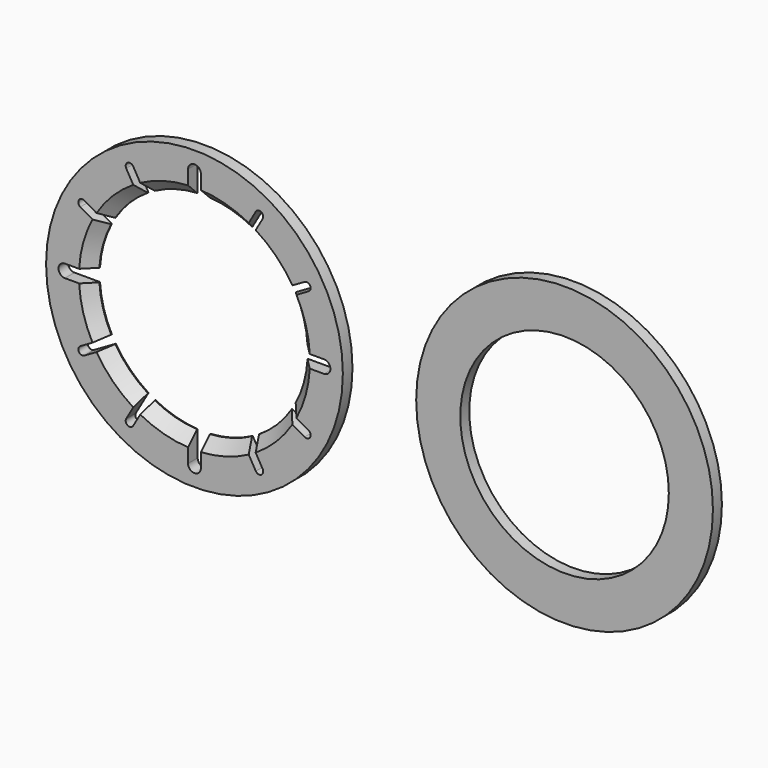
from build123d import *

# Parameters (mm, degrees)
F0_R     = 18.5
F1_DEPTH = 1.5
F2_SIZE  = 1.4
F0_R_2   = 13
F3_DEPTH = 1.4


with BuildPart() as f1:
    # F0 (on Front) → F1 (new body)
    with BuildSketch(Plane.XZ):
        Circle(F0_R)
        with BuildLine():
            ThreePointArc((11.5, 6.0621778265), (12.5173262382, 3.509493389), (12.9753612666, 0.8))
            Line((12.9753612666, 0.8), (16.15, 0.8))
            ThreePointArc((16.15, 0.8), (16.7156854249, 0.5656854249), (16.95, 0))
            ThreePointArc((16.95, 0), (16.7156854249, -0.5656854249), (16.15, -0.8))
            Line((16.15, -0.8), (12.9753612666, -0.8))
            ThreePointArc((12.9753612666, -0.8), (12.5173262382, -3.509493389), (11.5, -6.0621778265))
            Line((11.5, -6.0621778265), (14.2363102711, -7.6419872981))
            ThreePointArc((14.2363102711, -7.6419872981), (14.419322973, -7.825), (14.4863102711, -8.075))
            ThreePointArc((14.4863102711, -8.075), (14.2363102711, -8.5080127019), (13.7363102711, -8.5080127019))
            Line((13.7363102711, -8.5080127019), (11, -6.9282032303))
            ThreePointArc((11, -6.9282032303), (9.1923881554, -9.1923881554), (6.9282032303, -11))
            Line((6.9282032303, -11), (8.5080127019, -13.7363102711))
            ThreePointArc((8.5080127019, -13.7363102711), (8.5579629131, -13.8569007486), (8.575, -13.9863102711))
            ThreePointArc((8.575, -13.9863102711), (8.2044095226, -14.4692731843), (7.6419872981, -14.2363102711))
            Line((7.6419872981, -14.2363102711), (6.0621778265, -11.5))
            ThreePointArc((6.0621778265, -11.5), (3.509493389, -12.5173262382), (0.8, -12.9753612666))
            Line((0.8, -12.9753612666), (0.8, -16.15))
            ThreePointArc((0.8, -16.15), (0, -16.95), (-0.8, -16.15))
            Line((-0.8, -16.15), (-0.8, -12.9753612666))
            ThreePointArc((-0.8, -12.9753612666), (-3.509493389, -12.5173262382), (-6.0621778265, -11.5))
            Line((-6.0621778265, -11.5), (-7.6419872981, -14.2363102711))
            ThreePointArc((-7.6419872981, -14.2363102711), (-8.325, -14.419322973), (-8.5080127019, -13.7363102711))
            Line((-8.5080127019, -13.7363102711), (-6.9282032303, -11))
            ThreePointArc((-6.9282032303, -11), (-9.1923881554, -9.1923881554), (-11, -6.9282032303))
            Line((-11, -6.9282032303), (-13.7363102711, -8.5080127019))
            ThreePointArc((-13.7363102711, -8.5080127019), (-14.419322973, -8.325), (-14.2363102711, -7.6419872981))
            Line((-14.2363102711, -7.6419872981), (-11.5, -6.0621778265))
            ThreePointArc((-11.5, -6.0621778265), (-12.5173262382, -3.509493389), (-12.9753612666, -0.8))
            Line((-12.9753612666, -0.8), (-16.15, -0.8))
            ThreePointArc((-16.15, -0.8), (-16.95, 0), (-16.15, 0.8))
            Line((-16.15, 0.8), (-12.9753612666, 0.8))
            ThreePointArc((-12.9753612666, 0.8), (-12.5173262382, 3.509493389), (-11.5, 6.0621778265))
            Line((-11.5, 6.0621778265), (-14.2363102711, 7.6419872981))
            ThreePointArc((-14.2363102711, 7.6419872981), (-14.419322973, 8.325), (-13.7363102711, 8.5080127019))
            Line((-13.7363102711, 8.5080127019), (-11, 6.9282032303))
            ThreePointArc((-11, 6.9282032303), (-9.1923881554, 9.1923881554), (-6.9282032303, 11))
            Line((-6.9282032303, 11), (-8.5080127019, 13.7363102711))
            ThreePointArc((-8.5080127019, 13.7363102711), (-8.325, 14.419322973), (-7.6419872981, 14.2363102711))
            Line((-7.6419872981, 14.2363102711), (-6.0621778265, 11.5))
            ThreePointArc((-6.0621778265, 11.5), (-3.509493389, 12.5173262382), (-0.8, 12.9753612666))
            Line((-0.8, 12.9753612666), (-0.8, 16.15))
            ThreePointArc((-0.8, 16.15), (0, 16.95), (0.8, 16.15))
            Line((0.8, 16.15), (0.8, 12.9753612666))
            ThreePointArc((0.8, 12.9753612666), (3.509493389, 12.5173262382), (6.0621778265, 11.5))
            Line((6.0621778265, 11.5), (7.6419872981, 14.2363102711))
            ThreePointArc((7.6419872981, 14.2363102711), (8.2044095226, 14.4692731843), (8.575, 13.9863102711))
            ThreePointArc((8.575, 13.9863102711), (8.5579629131, 13.8569007486), (8.5080127019, 13.7363102711))
            Line((8.5080127019, 13.7363102711), (6.9282032303, 11))
            ThreePointArc((6.9282032303, 11), (9.1923881554, 9.1923881554), (11, 6.9282032303))
            Line((11, 6.9282032303), (13.7363102711, 8.5080127019))
            ThreePointArc((13.7363102711, 8.5080127019), (14.2363102711, 8.5080127019), (14.4863102711, 8.075))
            ThreePointArc((14.4863102711, 8.075), (14.419322973, 7.825), (14.2363102711, 7.6419872981))
            Line((14.2363102711, 7.6419872981), (11.5, 6.0621778265))
        make_face(mode=Mode.SUBTRACT)
        Circle(F0_R)
        with BuildLine():
            ThreePointArc((11.5, 6.0621778265), (12.5173262382, 3.509493389), (12.9753612666, 0.8))
            Line((12.9753612666, 0.8), (16.15, 0.8))
            ThreePointArc((16.15, 0.8), (16.7156854249, 0.5656854249), (16.95, 0))
            ThreePointArc((16.95, 0), (16.7156854249, -0.5656854249), (16.15, -0.8))
            Line((16.15, -0.8), (12.9753612666, -0.8))
            ThreePointArc((12.9753612666, -0.8), (12.5173262382, -3.509493389), (11.5, -6.0621778265))
            Line((11.5, -6.0621778265), (14.2363102711, -7.6419872981))
            ThreePointArc((14.2363102711, -7.6419872981), (14.419322973, -7.825), (14.4863102711, -8.075))
            ThreePointArc((14.4863102711, -8.075), (14.2363102711, -8.5080127019), (13.7363102711, -8.5080127019))
            Line((13.7363102711, -8.5080127019), (11, -6.9282032303))
            ThreePointArc((11, -6.9282032303), (9.1923881554, -9.1923881554), (6.9282032303, -11))
            Line((6.9282032303, -11), (8.5080127019, -13.7363102711))
            ThreePointArc((8.5080127019, -13.7363102711), (8.5579629131, -13.8569007486), (8.575, -13.9863102711))
            ThreePointArc((8.575, -13.9863102711), (8.2044095226, -14.4692731843), (7.6419872981, -14.2363102711))
            Line((7.6419872981, -14.2363102711), (6.0621778265, -11.5))
            ThreePointArc((6.0621778265, -11.5), (3.509493389, -12.5173262382), (0.8, -12.9753612666))
            Line((0.8, -12.9753612666), (0.8, -16.15))
            ThreePointArc((0.8, -16.15), (0, -16.95), (-0.8, -16.15))
            Line((-0.8, -16.15), (-0.8, -12.9753612666))
            ThreePointArc((-0.8, -12.9753612666), (-3.509493389, -12.5173262382), (-6.0621778265, -11.5))
            Line((-6.0621778265, -11.5), (-7.6419872981, -14.2363102711))
            ThreePointArc((-7.6419872981, -14.2363102711), (-8.325, -14.419322973), (-8.5080127019, -13.7363102711))
            Line((-8.5080127019, -13.7363102711), (-6.9282032303, -11))
            ThreePointArc((-6.9282032303, -11), (-9.1923881554, -9.1923881554), (-11, -6.9282032303))
            Line((-11, -6.9282032303), (-13.7363102711, -8.5080127019))
            ThreePointArc((-13.7363102711, -8.5080127019), (-14.419322973, -8.325), (-14.2363102711, -7.6419872981))
            Line((-14.2363102711, -7.6419872981), (-11.5, -6.0621778265))
            ThreePointArc((-11.5, -6.0621778265), (-12.5173262382, -3.509493389), (-12.9753612666, -0.8))
            Line((-12.9753612666, -0.8), (-16.15, -0.8))
            ThreePointArc((-16.15, -0.8), (-16.95, 0), (-16.15, 0.8))
            Line((-16.15, 0.8), (-12.9753612666, 0.8))
            ThreePointArc((-12.9753612666, 0.8), (-12.5173262382, 3.509493389), (-11.5, 6.0621778265))
            Line((-11.5, 6.0621778265), (-14.2363102711, 7.6419872981))
            ThreePointArc((-14.2363102711, 7.6419872981), (-14.419322973, 8.325), (-13.7363102711, 8.5080127019))
            Line((-13.7363102711, 8.5080127019), (-11, 6.9282032303))
            ThreePointArc((-11, 6.9282032303), (-9.1923881554, 9.1923881554), (-6.9282032303, 11))
            Line((-6.9282032303, 11), (-8.5080127019, 13.7363102711))
            ThreePointArc((-8.5080127019, 13.7363102711), (-8.325, 14.419322973), (-7.6419872981, 14.2363102711))
            Line((-7.6419872981, 14.2363102711), (-6.0621778265, 11.5))
            ThreePointArc((-6.0621778265, 11.5), (-3.509493389, 12.5173262382), (-0.8, 12.9753612666))
            Line((-0.8, 12.9753612666), (-0.8, 16.15))
            ThreePointArc((-0.8, 16.15), (0, 16.95), (0.8, 16.15))
            Line((0.8, 16.15), (0.8, 12.9753612666))
            ThreePointArc((0.8, 12.9753612666), (3.509493389, 12.5173262382), (6.0621778265, 11.5))
            Line((6.0621778265, 11.5), (7.6419872981, 14.2363102711))
            ThreePointArc((7.6419872981, 14.2363102711), (8.2044095226, 14.4692731843), (8.575, 13.9863102711))
            ThreePointArc((8.575, 13.9863102711), (8.5579629131, 13.8569007486), (8.5080127019, 13.7363102711))
            Line((8.5080127019, 13.7363102711), (6.9282032303, 11))
            ThreePointArc((6.9282032303, 11), (9.1923881554, 9.1923881554), (11, 6.9282032303))
            Line((11, 6.9282032303), (13.7363102711, 8.5080127019))
            ThreePointArc((13.7363102711, 8.5080127019), (14.2363102711, 8.5080127019), (14.4863102711, 8.075))
            ThreePointArc((14.4863102711, 8.075), (14.419322973, 7.825), (14.2363102711, 7.6419872981))
            Line((14.2363102711, 7.6419872981), (11.5, 6.0621778265))
        make_face(mode=Mode.SUBTRACT)
    extrude(amount=F1_DEPTH)

    # F2
    f2_edges = [f1.edges().sort_by_distance(p)[0] for p in [
        (-12.517326, -1.5, 3.509493),
        (-9.192388, -1.5, 9.192388),
        (-3.509493, -1.5, 12.517326),
        (3.509493, -1.5, 12.517326),
        (9.192388, -1.5, 9.192388),
        (12.517326, -1.5, 3.509493),
        (12.517326, -1.5, -3.509493),
        (9.192388, -1.5, -9.192388),
        (3.509493, -1.5, -12.517326),
        (-3.509493, -1.5, -12.517326),
        (-9.192388, -1.5, -9.192388),
        (-12.517326, -1.5, -3.509493),
    ]]
    chamfer(f2_edges, length=F2_SIZE)


with BuildPart() as f3:
    # F0 (on Front) → F3 (new body)
    with BuildSketch(Plane.XZ):
        with Locations((46.060487628, 0)):
            Circle(F0_R)
        with Locations((46.060487628, 0)):
            Circle(F0_R_2, mode=Mode.SUBTRACT)
    extrude(amount=F3_DEPTH)


solid = Compound([f1.part, f3.part])
